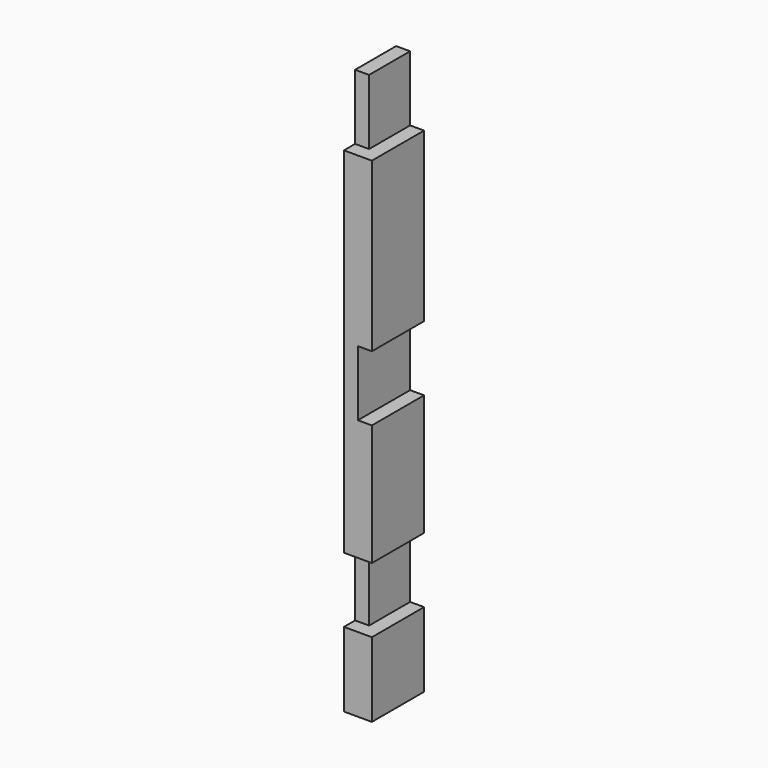
from build123d import *

# Parameters (mm, degrees)
F0_W      = 38.1
F0_H      = 88.9
F1_DEPTH  = 762
F2_W      = 19.05
F2_H      = 88.9
F3_DEPTH  = 88.901
F4_W      = 19.05
F4_H      = 88.9
F5_DEPTH  = 88.901
F6_W      = 19.05
F6_H      = 88.9
F7_DEPTH  = 88.901
F8_W      = 19.05
F8_H      = 88.9
F9_DEPTH  = 19.051
F10_W     = 19.05
F10_H     = 88.9
F11_DEPTH = 19.051


with BuildPart() as f1:
    # F0 (on Top) → F1 (new body)
    with BuildSketch(Plane.XY):
        with Locations((19.05, 44.45)):
            Rectangle(F0_W, F0_H)
    extrude(amount=F1_DEPTH)

    # F2 (on face) → F3 (cut, through all)
    with BuildSketch(Plane.XZ):
        with Locations((28.575, 717.55)):
            Rectangle(F2_W, F2_H)
    extrude(amount=-F3_DEPTH, mode=Mode.SUBTRACT)

    # F4 (on face) → F5 (cut, through all)
    with BuildSketch(Plane.XZ):
        with Locations((28.575, 146.05)):
            Rectangle(F4_W, F4_H)
    extrude(amount=-F5_DEPTH, mode=Mode.SUBTRACT)

    # F6 (on face) → F7 (cut, through all)
    with BuildSketch(Plane.XZ):
        with Locations((28.575, 400.05)):
            Rectangle(F6_W, F6_H)
    extrude(amount=-F7_DEPTH, mode=Mode.SUBTRACT)

    # F8 (on face) → F9 (cut, through all)
    with BuildSketch(Plane.YZ.offset(19.05)):
        with Locations((9.525, 146.05)):
            Rectangle(F8_W, F8_H)
    extrude(amount=-F9_DEPTH, mode=Mode.SUBTRACT)

    # F10 (on face) → F11 (cut, through all)
    with BuildSketch(Plane.YZ.offset(19.05)):
        with Locations((9.525, 717.55)):
            Rectangle(F10_W, F10_H)
    extrude(amount=-F11_DEPTH, mode=Mode.SUBTRACT)


solid = f1.part
